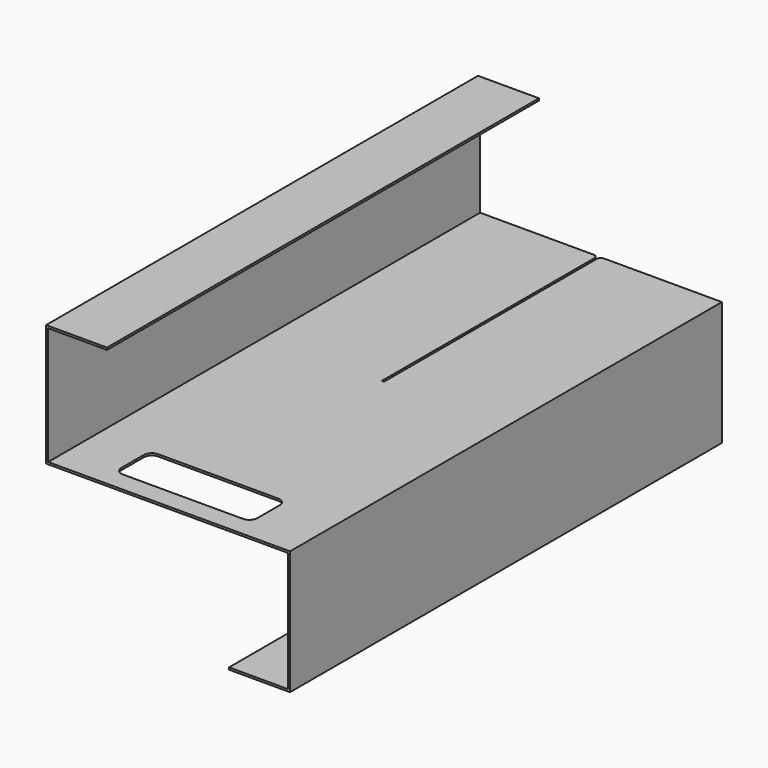
from build123d import *

# Parameters (mm, degrees)
F1_DEPTH = 428.625
F2_W     = 1.778
F2_H     = 214.3125
F3_DEPTH = 1.651
F4_R     = 3.175
F5_R     = 0.762
F6_DEPTH = 25.4


with BuildPart() as f1:
    # F0 (on Front) → F1 (new body)
    with BuildSketch(Plane.XZ):
        Polygon((0, 95.1738), (0, 96.8248), (-48.4124, 96.8248), (-48.4124, 0), (143.5862, 0), (143.5862, -95.1738), (96.8248, -95.1738), (96.8248, -96.8248), (145.2372, -96.8248), (145.2372, 1.651), (-46.7614, 1.651), (-46.7614, 95.1738), align=None)
    extrude(amount=F1_DEPTH)

    # F2 (on face) → F3 (cut)
    with BuildSketch(Plane(origin=(0, 0, 0), x_dir=(1, 0, 0), z_dir=(0, 0, -1))):
        with Locations((47.5869, 107.15625)):
            Rectangle(F2_W, F2_H)
        with BuildLine():
            Line((101.5619, 384.175), (101.5619, 406.4))
            ThreePointArc((101.5619, 406.4), (99.7020280605, 410.8901280605), (95.2119, 412.75))
            Line((95.2119, 412.75), (-0.0381, 412.75))
            ThreePointArc((-0.0381, 412.75), (-4.5282280605, 410.8901280605), (-6.3881, 406.4))
            Line((-6.3881, 406.4), (-6.3881, 384.175))
            ThreePointArc((-6.3881, 384.175), (-4.5282280605, 379.6848719395), (-0.0381, 377.825))
            Line((-0.0381, 377.825), (95.2119, 377.825))
            ThreePointArc((95.2119, 377.825), (99.7020280605, 379.6848719395), (101.5619, 384.175))
        make_face()
    extrude(amount=-F3_DEPTH, mode=Mode.SUBTRACT)

    # F4
    f4_edges = [f1.edges().sort_by_distance(p)[0] for p in [
        (48.4759, 0, 0.8255),
        (46.6979, 0, 0.8255),
    ]]
    fillet(f4_edges, radius=F4_R)

    # F5
    f5_edges = [f1.edges().sort_by_distance(p)[0] for p in [
        (46.6979, -214.3125, 0.8255),
        (48.4759, -214.3125, 0.8255),
    ]]
    fillet(f5_edges, radius=F5_R)

    # F2 (on face) → F6 (cut)
    with BuildSketch(Plane(origin=(0, 0, 0), x_dir=(1, 0, 0), z_dir=(0, 0, -1))):
        with Locations((47.5869, 107.15625)):
            Rectangle(F2_W, F2_H)
        with BuildLine():
            Line((101.5619, 384.175), (101.5619, 406.4))
            ThreePointArc((101.5619, 406.4), (99.7020280605, 410.8901280605), (95.2119, 412.75))
            Line((95.2119, 412.75), (-0.0381, 412.75))
            ThreePointArc((-0.0381, 412.75), (-4.5282280605, 410.8901280605), (-6.3881, 406.4))
            Line((-6.3881, 406.4), (-6.3881, 384.175))
            ThreePointArc((-6.3881, 384.175), (-4.5282280605, 379.6848719395), (-0.0381, 377.825))
            Line((-0.0381, 377.825), (95.2119, 377.825))
            ThreePointArc((95.2119, 377.825), (99.7020280605, 379.6848719395), (101.5619, 384.175))
        make_face()
    extrude(amount=-F6_DEPTH, mode=Mode.SUBTRACT)


solid = f1.part
